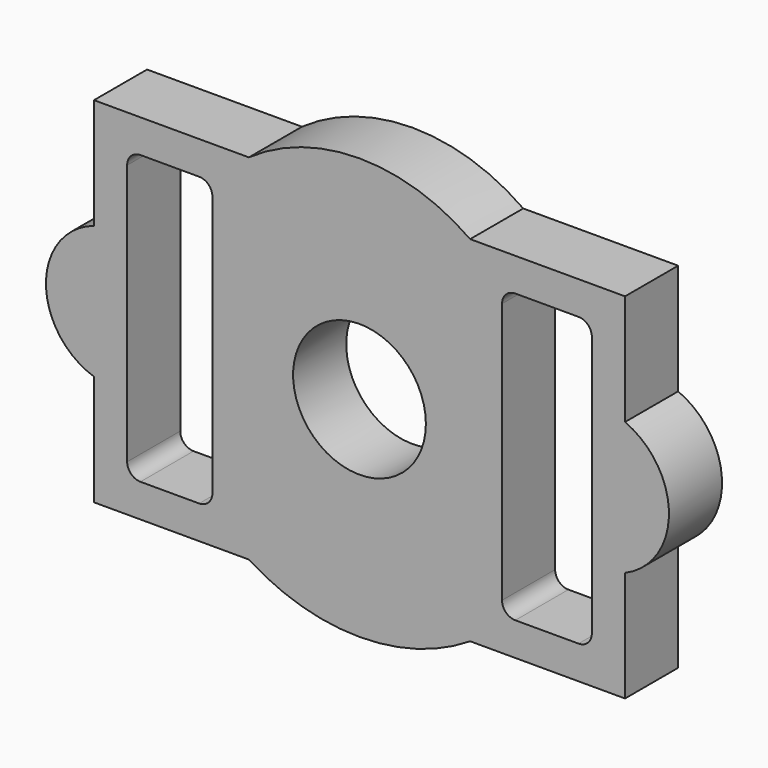
from build123d import *

# Parameters (mm, degrees)
F0_R     = 30
F1_DEPTH = 30


with BuildPart() as f1:
    # F0 (on Front) → F1 (new body)
    with BuildSketch(Plane.XZ):
        with BuildLine():
            ThreePointArc((79.419856, 48.034481), (29.419856, 63.916465), (-20.580144, 48.034481))
            Line((-20.580144, 48.034481), (-90.580144, 48.034481))
            Line((-90.580144, 48.034481), (-90.580144, -1.965519))
            ThreePointArc((-90.580144, -1.965519), (-112.275858, -31.965519), (-90.580144, -61.965519))
            Line((-90.580144, -61.965519), (-90.580144, -111.965519))
            Line((-90.580144, -111.965519), (-20.580144, -111.965519))
            ThreePointArc((-20.580144, -111.965519), (29.419856, -126.504106), (79.419856, -111.965519))
            Line((79.419856, -111.965519), (149.419856, -111.965519))
            Line((149.419856, -111.965519), (149.419856, -61.965519))
            ThreePointArc((149.419856, -61.965519), (169.267812, -31.965519), (149.419856, -1.965519))
            Line((149.419856, -1.965519), (149.419856, 48.034481))
            Line((149.419856, 48.034481), (79.419856, 48.034481))
        make_face()
        with BuildLine():
            ThreePointArc((-75.580144, 27.034481), (-73.822784, 31.277122), (-69.580144, 33.034481))
            Line((-69.580144, 33.034481), (-43.045036, 33.034481))
            ThreePointArc((-43.045036, 33.034481), (-38.802395, 31.277122), (-37.045036, 27.034481))
            Line((-37.045036, 27.034481), (-37.045036, -90.965519))
            ThreePointArc((-37.045036, -90.965519), (-38.802395, -95.20816), (-43.045036, -96.965519))
            Line((-43.045036, -96.965519), (-69.580144, -96.965519))
            ThreePointArc((-69.580144, -96.965519), (-73.822784, -95.20816), (-75.580144, -90.965519))
            Line((-75.580144, -90.965519), (-75.580144, 27.034481))
        make_face(mode=Mode.SUBTRACT)
        with Locations((29.419856, -31.965519)):
            Circle(F0_R, mode=Mode.SUBTRACT)
        with BuildLine():
            ThreePointArc((93.84039, 27.034481), (95.59775, 31.277122), (99.84039, 33.034481))
            Line((99.84039, 33.034481), (128.419856, 33.034481))
            ThreePointArc((128.419856, 33.034481), (132.662497, 31.277122), (134.419856, 27.034481))
            Line((134.419856, 27.034481), (134.419856, -90.965519))
            ThreePointArc((134.419856, -90.965519), (132.662497, -95.20816), (128.419856, -96.965519))
            Line((128.419856, -96.965519), (99.84039, -96.965519))
            ThreePointArc((99.84039, -96.965519), (95.59775, -95.20816), (93.84039, -90.965519))
            Line((93.84039, -90.965519), (93.84039, 27.034481))
        make_face(mode=Mode.SUBTRACT)
    extrude(amount=F1_DEPTH)


solid = f1.part
